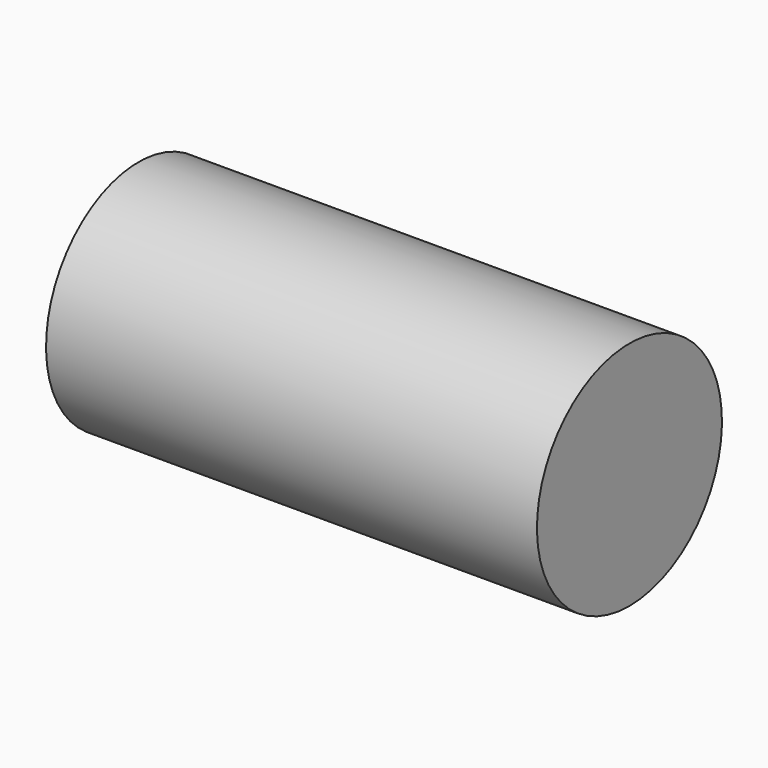
from build123d import *

# Parameters (mm, degrees)
F0_W = 82.244918
F0_H = 19.369274


with BuildPart() as f1:
    # F0 (on Front) → F1 (revolve)
    with BuildSketch(Plane.XZ):
        Rectangle(F0_W, F0_H)
    revolve(axis=Axis((0, 0, 9.684637), (1, 0, 0)))


solid = f1.part
